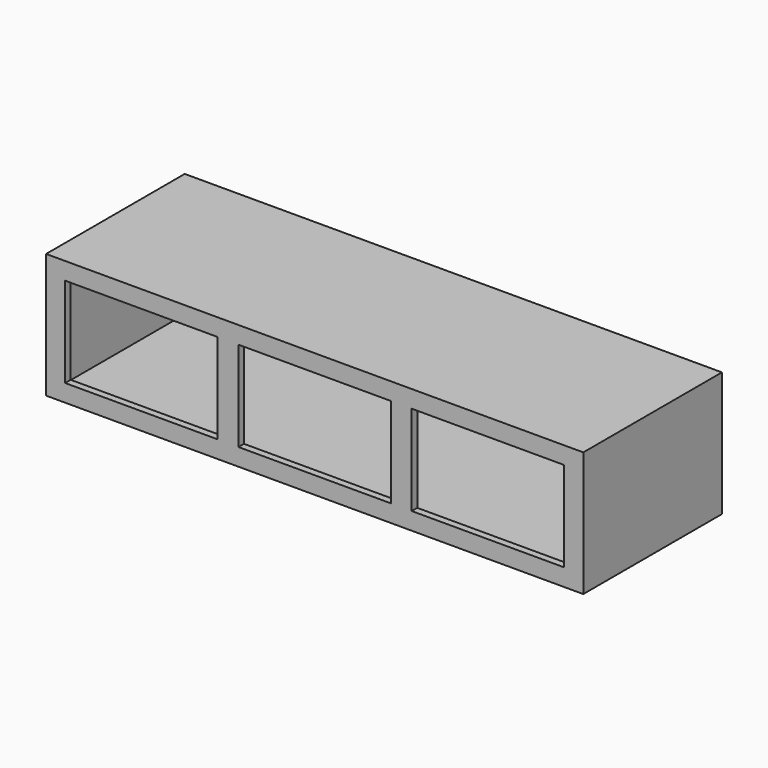
from build123d import *

# Parameters (mm, degrees)
F0_W     = 155
F0_H     = 36
F1_DEPTH = 50
F2_T     = -2
F3_W     = 44
F3_H     = 26
F4_DEPTH = 25


with BuildPart() as f1:
    # F0 (on Front) → F1 (new body)
    with BuildSketch(Plane.XZ):
        Rectangle(F0_W, F0_H)
    extrude(amount=F1_DEPTH)

    # F2
    f2_openings = [f1.faces().sort_by_distance(p)[0] for p in [
        (0, 0, 0),
    ]]
    offset(amount=F2_T, openings=f2_openings)

    # F3 (on face) → F4 (cut)
    with BuildSketch(Plane.XZ.offset(50)):
        Rectangle(F3_W, F3_H)
        with Locations((-50, 0)):
            Rectangle(F3_W, F3_H)
        with Locations((50, 0)):
            Rectangle(F3_W, F3_H)
    extrude(amount=-F4_DEPTH, mode=Mode.SUBTRACT)


solid = f1.part
